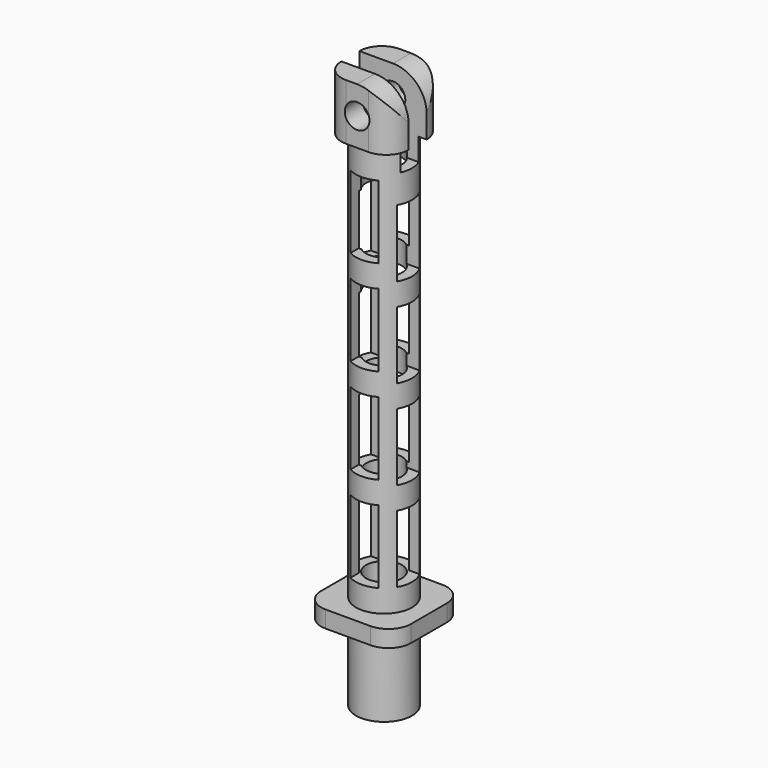
from build123d import *

# Parameters (mm, degrees)
SKETCH_R        = 2.5
SKETCH_R_2      = 1.6
PAD_DEPTH       = 45
PAD001_DEPTH    = 1.5
PAD002_DEPTH    = 5
SKETCH003_W     = 2
SKETCH003_H     = 7
POCKET_DEPTH    = 7.001
SKETCH004_R     = 1.1
POCKET001_DEPTH = 7.001
SKETCH006_W     = 2.5
SKETCH006_H     = 6.5
POCKET002_DEPTH = 8.001
SKETCH005_W     = 2.5
SKETCH005_H     = 6
POCKET003_DEPTH = 8.001
POCKET004_DEPTH = 7.001


with BuildPart() as part:
    # Sketch → Pad (new body)
    with BuildSketch(Plane.XY):
        Circle(SKETCH_R)
        Circle(SKETCH_R_2, mode=Mode.SUBTRACT)
    extrude(amount=PAD_DEPTH)

    # Sketch001 (on Face3 of Pad) → Pad001 (join)
    with BuildSketch(Plane(origin=(0, 0, 7), x_dir=(1, 0, 0), z_dir=(0, 0, -1))):
        with BuildLine():
            Line((-2, 4), (2, 4))
            ThreePointArc((4, 2), (3.414214, 3.414214), (2, 4))
            Line((4, 2), (4, -2))
            ThreePointArc((2, -4), (3.414214, -3.414214), (4, -2))
            Line((2, -4), (-2, -4))
            ThreePointArc((-4, -2), (-3.414214, -3.414214), (-2, -4))
            Line((-4, -2), (-4, 2))
            ThreePointArc((-2, 4), (-3.414214, 3.414214), (-4, 2))
        make_face()
    extrude(amount=-PAD001_DEPTH)

    # Sketch002 (on Face16 of Pad001) → Pad002 (join)
    with BuildSketch(Plane.XY.offset(45)):
        with BuildLine():
            Line((-1, 3), (1, 3))
            ThreePointArc((3, 1), (2.414214, 2.414214), (1, 3))
            Line((3, 1), (3, -1))
            ThreePointArc((1, -3), (2.414214, -2.414214), (3, -1))
            Line((1, -3), (-1, -3))
            ThreePointArc((-3, -1), (-2.414214, -2.414214), (-1, -3))
            Line((-3, -1), (-3, 1))
            ThreePointArc((-1, 3), (-2.414214, 2.414214), (-3, 1))
        make_face()
    extrude(amount=PAD002_DEPTH)

    # Sketch003 (on Face10 of Pad002) → Pocket (cut, through all)
    with BuildSketch(Plane.YZ.offset(3)):
        with Locations((0, 46.5)):
            Rectangle(SKETCH003_W, SKETCH003_H)
    extrude(amount=-POCKET_DEPTH, mode=Mode.SUBTRACT)

    # Sketch004 (on Face3 of Pocket) → Pocket001 (cut, through all)
    with BuildSketch(Plane.XZ.offset(3)):
        with Locations((0, 47.5)):
            Circle(SKETCH004_R)
    extrude(amount=-POCKET001_DEPTH, mode=Mode.SUBTRACT)

    # Sketch006 (on Face28 of Pocket001) → Pocket002 (cut, through all)
    with BuildSketch(Plane.XZ.offset(4)):
        with Locations((0, 13.75)):
            Rectangle(SKETCH006_W, SKETCH006_H)
        with Locations((0, 22.25)):
            Rectangle(SKETCH006_W, SKETCH006_H)
        with Locations((0, 30.75)):
            Rectangle(SKETCH006_W, SKETCH006_H)
        with Locations((0, 39.25)):
            Rectangle(SKETCH006_W, SKETCH006_H)
    extrude(amount=-POCKET002_DEPTH, mode=Mode.SUBTRACT)

    # Sketch005 (on Face31 of Pocket001) → Pocket003 (cut, through all)
    with BuildSketch(Plane.YZ.offset(4)):
        with Locations((0, 13.5)):
            Rectangle(SKETCH005_W, SKETCH005_H)
        with Locations((0, 21.5)):
            Rectangle(SKETCH005_W, SKETCH005_H)
        with Locations((0, 29.5)):
            Rectangle(SKETCH005_W, SKETCH005_H)
        with Locations((0, 37.5)):
            Rectangle(SKETCH005_W, SKETCH005_H)
    extrude(amount=-POCKET003_DEPTH, mode=Mode.SUBTRACT)

    # Sketch007 (on Face5 of Pocket003) → Pocket004 (cut, through all)
    with BuildSketch(Plane.XZ.offset(3)):
        with BuildLine():
            ThreePointArc((3, 47.251006), (2.034513, 49.208821), (0, 50))
            Line((0, 50), (3, 50))
            Line((3, 47.251006), (3, 50))
        make_face()
    extrude(amount=-POCKET004_DEPTH, mode=Mode.SUBTRACT)


solid = part.part
